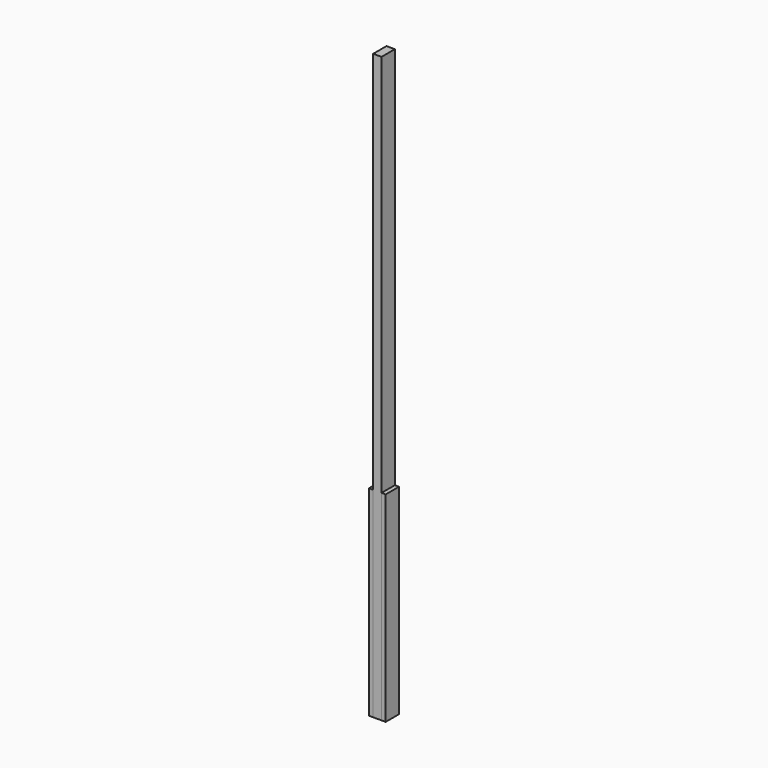
from build123d import *

# Parameters (mm, degrees)
F0_W     = 200
F0_H     = 200
F2_DEPTH = 2400
F1_W     = 100
F1_H     = 200
F3_DEPTH = 3500
F4_DEPTH = 7000


with BuildPart() as f2:
    # F0 (on Top) → F2 (new body)
    with BuildSketch(Plane.XY):
        Rectangle(F0_W, F0_H)
    extrude(amount=F2_DEPTH)


with BuildPart() as f3:
    # F1 (on Top) → F3 (new body)
    with BuildSketch(Plane.XY):
        Rectangle(F1_W, F1_H)
    extrude(amount=F3_DEPTH)


with BuildPart() as f4:
    # F1 (on Top) → F4 (new body)
    with BuildSketch(Plane.XY):
        Rectangle(F1_W, F1_H)
    extrude(amount=F4_DEPTH)


solid = Compound([f2.part, f3.part, f4.part])
